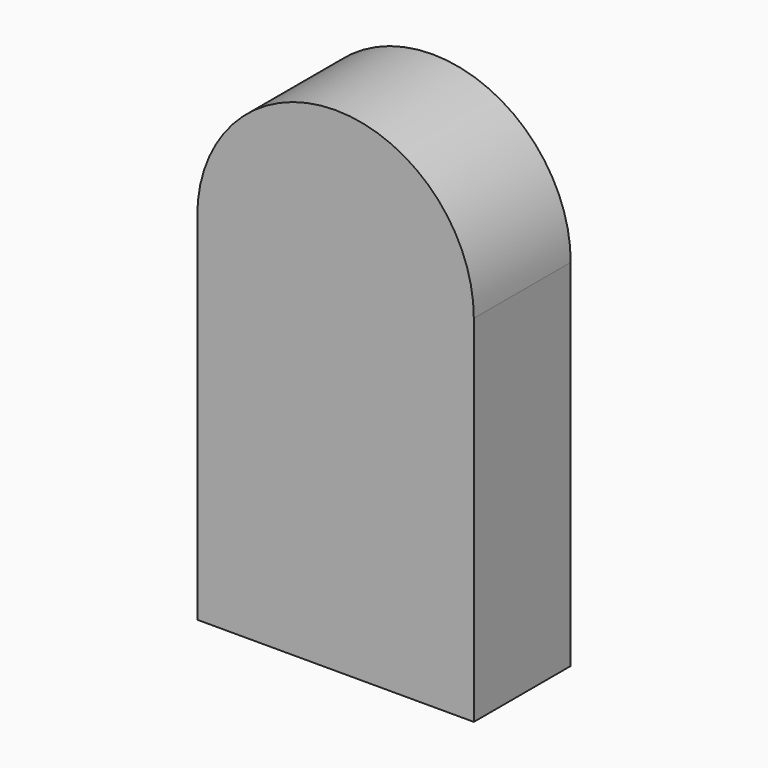
from build123d import *

# Parameters (mm, degrees)
F1_DEPTH = 300


with BuildPart() as f1:
    # F0 (on Front) → F1 (new body)
    with BuildSketch(Plane.XZ):
        with BuildLine():
            Line((-342.5, 0), (342.5, 0))
            ThreePointArc((342.5, 0), (0, 342.5), (-342.5, 0))
        make_face()
        with BuildLine():
            Line((342.5, -880), (342.5, 0))
            ThreePointArc((342.5, 0), (0, -342.5), (-342.5, 0))
            Line((-342.5, 0), (-342.5, -880))
            Line((-342.5, -880), (342.5, -880))
        make_face()
        with BuildLine():
            ThreePointArc((-342.5, 0), (0, -342.5), (342.5, 0))
            Line((342.5, 0), (-342.5, 0))
        make_face()
    extrude(amount=F1_DEPTH)


solid = f1.part
